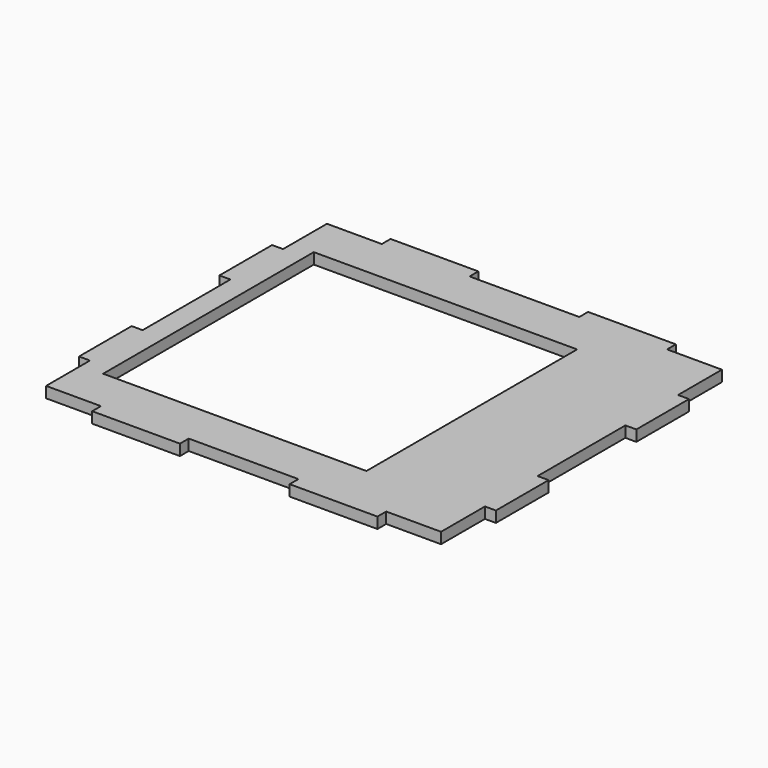
from build123d import *

# Parameters (mm, degrees)
F0_W     = 228.6
F0_H     = 203.2
F0_W_2   = 152.4
F0_H_2   = 152.4
F1_DEPTH = 6.35
F2_W     = 50.8
F2_H     = 6.35
F2_W_2   = 6.35
F2_H_2   = 38.1
F3_DEPTH = 6.35


with BuildPart() as f1:
    # F0 (on Top) → F1 (new body)
    with BuildSketch(Plane.XY):
        with Locations((25.4, 0)):
            Rectangle(F0_W, F0_H)
        Rectangle(F0_W_2, F0_H_2, mode=Mode.SUBTRACT)
    extrude(amount=F1_DEPTH)

    # F2 (on face) → F3 (join)
    with BuildSketch(Plane.XY.offset(6.35)):
        with Locations((-31.75, 104.775)):
            Rectangle(F2_W, F2_H)
        with Locations((82.55, 104.775)):
            Rectangle(F2_W, F2_H)
        with Locations((142.875, 50.8)):
            Rectangle(F2_W_2, F2_H_2)
        with Locations((142.875, -50.8)):
            Rectangle(F2_W_2, F2_H_2)
        with Locations((-92.075, -50.8)):
            Rectangle(F2_W_2, F2_H_2)
        with Locations((-92.075, 50.8)):
            Rectangle(F2_W_2, F2_H_2)
        with Locations((82.55, -104.775)):
            Rectangle(F2_W, F2_H)
        with Locations((-31.75, -104.775)):
            Rectangle(F2_W, F2_H)
    extrude(amount=-F3_DEPTH)


solid = f1.part
